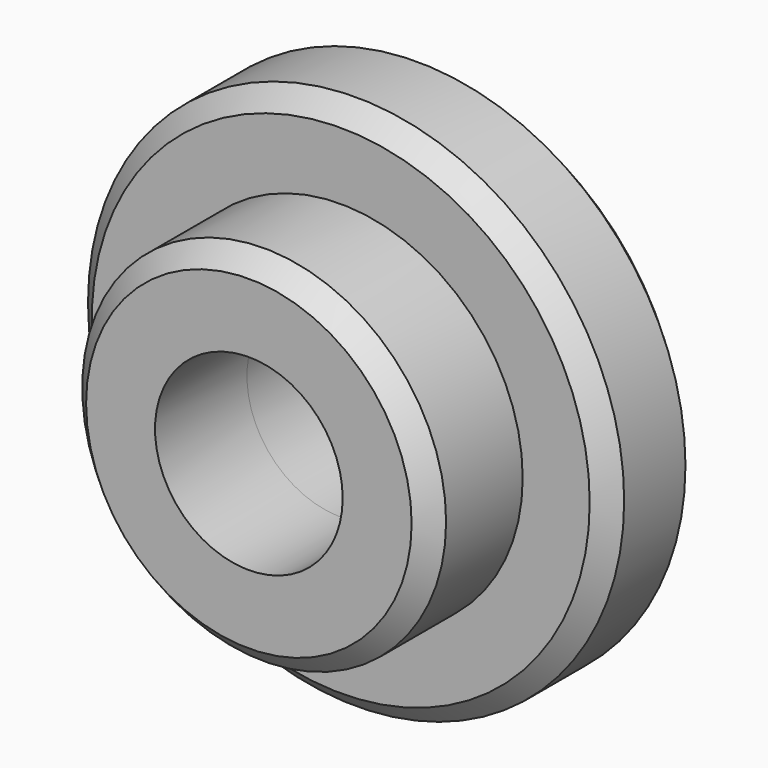
from build123d import *

# Parameters (mm, degrees)
F0_R          = 4.75
F0_R_2        = 2.45
F1_DEPTH      = 3
F1_DEPTH_BACK = 3
F0_R_3        = 7
F2_DEPTH      = 3
F3_SIZE       = 0.5


with BuildPart() as f1:
    # F0 (on Front) → F1 (new body, two sides)
    with BuildSketch(Plane.XZ) as f1_sk:
        Circle(F0_R)
        Circle(F0_R_2, mode=Mode.SUBTRACT)
    extrude(amount=F1_DEPTH)
    extrude(f1_sk.sketch, amount=-F1_DEPTH_BACK)

    # F0 (on Front) → F2 (join)
    with BuildSketch(Plane.XZ):
        Circle(F0_R_3)
        Circle(F0_R, mode=Mode.SUBTRACT)
    extrude(amount=-F2_DEPTH)

    # F3
    f3_edges = [f1.edges().sort_by_distance(p)[0] for p in [
        (-4.75, -3, 0),
        (-7, 0, 0),
        (-7, 3, 0),
    ]]
    chamfer(f3_edges, length=F3_SIZE)


solid = f1.part
